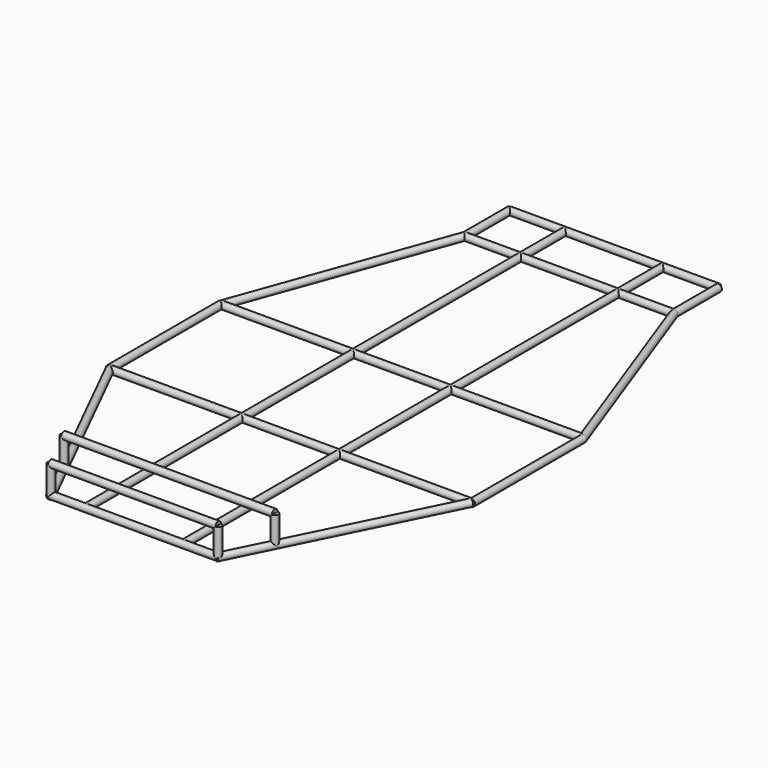
from build123d import *

# Parameters (mm, degrees)
F3_DEPTH  = 762
F2_R      = 12.7
F6_DEPTH  = 1316.482
F5_R      = 12.7
F8_R      = 12.7
F9_DEPTH  = 609.6
F12_R     = 12.7
F13_DEPTH = 2184.4
F15_DEPTH = 203.2
F14_R     = 12.7
F18_DEPTH = 508
F17_R     = 12.7
F20_R     = 12.7
F21_DEPTH = 815.34
F23_R     = 12.7
F24_DEPTH = 815.34
F26_R     = 12.7
F27_DEPTH = 800.1
F29_R     = 12.7
F30_DEPTH = 800.1
F31_R     = 12.7
F32_DEPTH = 101.6
F34_R     = 12.7
F35_DEPTH = 609.6
F37_R     = 12.8859667662
F38_DEPTH = 768.35


with BuildPart() as f3:
    # F2 (on plane+point) → F3 (new body)
    with BuildSketch(Plane.YZ.offset(-381)):
        with BuildLine():
            ThreePointArc((114.3, 0), (101.6, 12.7), (88.9, 0))
            ThreePointArc((88.9, 0), (101.6, -12.7), (114.3, 0))
        make_face()
    extrude(amount=F3_DEPTH)


with BuildPart() as f3b:
    # F2 (on plane+point) → F3, piece 2 (new body)
    with BuildSketch(Plane.YZ.offset(-381)):
        with Locations((-101.6, 0)):
            Circle(F2_R)
    extrude(amount=F3_DEPTH)


with BuildPart() as f6:
    # F5 (on plane+point) → F6 (new body)
    with BuildSketch(Plane.YZ.offset(-658.3453185108)):
        with BuildLine():
            ThreePointArc((-876.3, 0), (-863.6, -12.7), (-850.9, 0))
            Line((-850.9, 0), (-863.6, 0))
            Line((-863.6, 0), (-876.3, 0))
        make_face()
        with BuildLine():
            Line((-863.6, 0), (-850.9, 0))
            ThreePointArc((-850.9, 0), (-863.6, 12.7), (-876.3, 0))
            Line((-876.3, 0), (-863.6, 0))
        make_face()
    extrude(amount=F6_DEPTH)


with BuildPart() as f6b:
    # F5 (on plane+point) → F6, piece 2 (new body)
    with BuildSketch(Plane.YZ.offset(-658.3453185108)):
        with Locations((-1371.6, 0)):
            Circle(F5_R)
    extrude(amount=F6_DEPTH)


with BuildPart() as f9:
    # F8 (on plane+point) → F9 (new body)
    with BuildSketch(Plane.YZ.offset(-304.8)):
        with Locations((-2082.8, 0)):
            Circle(F8_R)
    extrude(amount=F9_DEPTH)


with BuildPart() as f13:
    # F12 (on plane+point) → F13 (new body)
    with BuildSketch(Plane.XZ.offset(-101.6)):
        with Locations((-177.8, 0)):
            Circle(F12_R)
    extrude(amount=F13_DEPTH)


with BuildPart() as f13b:
    # F12 (on plane+point) → F13, piece 2 (new body)
    with BuildSketch(Plane.XZ.offset(-101.6)):
        with BuildLine():
            ThreePointArc((190.5, 0), (177.8, 12.7), (165.1, 0))
            ThreePointArc((165.1, 0), (177.8, -12.7), (190.5, 0))
        make_face()
    extrude(amount=F13_DEPTH)


with BuildPart() as f15:
    # F14 (on plane+point) → F15 (new body)
    with BuildSketch(Plane.XZ.offset(-101.6)):
        with BuildLine():
            ThreePointArc((393.7, 0), (381, 12.7), (368.3, 0))
            ThreePointArc((368.3, 0), (381, -12.7), (393.7, 0))
        make_face()
    extrude(amount=F15_DEPTH)


with BuildPart() as f15b:
    # F14 (on plane+point) → F15, piece 2 (new body)
    with BuildSketch(Plane.XZ.offset(-101.6)):
        with Locations((-381, 0)):
            Circle(F14_R)
    extrude(amount=F15_DEPTH)


with BuildPart() as f18:
    # F17 (on plane+point) → F18 (new body)
    with BuildSketch(Plane.XZ.offset(863.6)):
        with BuildLine():
            ThreePointArc((673.1, 0), (660.4, 12.7), (647.7, 0))
            ThreePointArc((647.7, 0), (660.4, -12.7), (673.1, 0))
        make_face()
    extrude(amount=F18_DEPTH)


with BuildPart() as f18b:
    # F17 (on plane+point) → F18, piece 2 (new body)
    with BuildSketch(Plane.XZ.offset(863.6)):
        with Locations((-660.4, 0)):
            Circle(F17_R)
    extrude(amount=F18_DEPTH)


with BuildPart() as f21:
    # F20 (on line) → F21 (new body)
    with BuildSketch(Plane(origin=(77.2221441579, -212.1660973557, 0), x_dir=(-0.9396926208, -0.3420201433, 0), z_dir=(-0.3420201433, 0.9396926208, 0))):
        with Locations((-323.85, 0)):
            Circle(F20_R)
    extrude(amount=-F21_DEPTH)


with BuildPart() as f24:
    # F23 (on line) → F24 (new body)
    with BuildSketch(Plane(origin=(-77.2221441579, -212.1660973557, 0), x_dir=(0.9396926208, -0.3420201433, 0), z_dir=(-0.3420201433, -0.9396926208, 0))):
        with Locations((-323.85, 0)):
            Circle(F23_R)
    extrude(amount=F24_DEPTH)


with BuildPart() as f27:
    # F26 (on line) → F27 (new body)
    with BuildSketch(Plane(origin=(-416.2773786186, -837.3932737126, 0), x_dir=(-0.8954596021, 0.4451427872, 0), z_dir=(0.4451427872, 0.8954596021, 0))):
        with Locations((-1200.15, 0)):
            Circle(F26_R)
    extrude(amount=-F27_DEPTH)


with BuildPart() as f30:
    # F29 (on line) → F30 (new body)
    with BuildSketch(Plane(origin=(416.2773786186, -837.3932737126, 0), x_dir=(0.8954596021, 0.4451427872, 0), z_dir=(0.4451427872, -0.8954596021, 0))):
        with Locations((-1200.15, 0)):
            Circle(F29_R)
    extrude(amount=F30_DEPTH)


with BuildPart() as f32:
    # F31 (on Top) → F32 (new body)
    with BuildSketch(Plane.XY):
        with Locations((-304.8, -2082.8)):
            Circle(F31_R)
    extrude(amount=F32_DEPTH)


with BuildPart() as f32b:
    # F31 (on Top) → F32, piece 2 (new body)
    with BuildSketch(Plane.XY):
        with Locations((304.8, -2082.8)):
            Circle(F31_R)
    extrude(amount=F32_DEPTH)


with BuildPart() as f32c:
    # F31 (on Top) → F32, piece 3 (new body)
    with BuildSketch(Plane.XY):
        with Locations((-384.1339711709, -1923.6806705072)):
            Circle(F31_R)
    extrude(amount=F32_DEPTH)


with BuildPart() as f32d:
    # F31 (on Top) → F32, piece 4 (new body)
    with BuildSketch(Plane.XY):
        with Locations((384.1339711709, -1923.6806705072)):
            Circle(F31_R)
    extrude(amount=F32_DEPTH)


with BuildPart() as f35:
    # F34 (on face) → F35 (new body)
    with BuildSketch(Plane.YZ.offset(-304.8)):
        with Locations((-2082.8, 101.6)):
            Circle(F34_R)
    extrude(amount=F35_DEPTH)


with BuildPart() as f38:
    # F37 (on face) → F38 (new body)
    with BuildSketch(Plane.YZ.offset(-384.1339711709)):
        with Locations((-1924.05, 101.6)):
            Circle(F37_R)
    extrude(amount=F38_DEPTH)


solid = Compound([f3.part, f3b.part, f6.part, f6b.part, f9.part, f13.part, f13b.part, f15.part, f15b.part, f18.part, f18b.part, f21.part, f24.part, f27.part, f30.part, f32.part, f32b.part, f32c.part, f32d.part, f35.part, f38.part])
